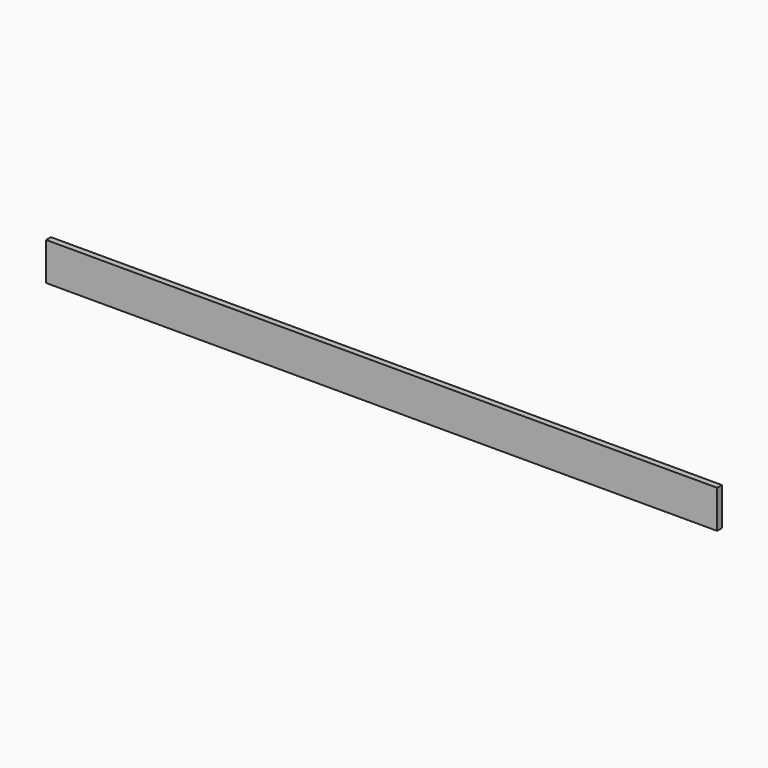
from build123d import *

# Parameters (mm, degrees)
F0_W     = 4267.2
F0_H     = 241.3
F1_DEPTH = 19.05


with BuildPart() as f1:
    # F0 (on Front) → F1 (new body, symmetric)
    with BuildSketch(Plane.XZ):
        Rectangle(F0_W, F0_H)
    extrude(amount=F1_DEPTH, both=True)


with BuildPart() as f2_1:
    # F2: copy of F1
    add(f1.part)


solid = f1.part
